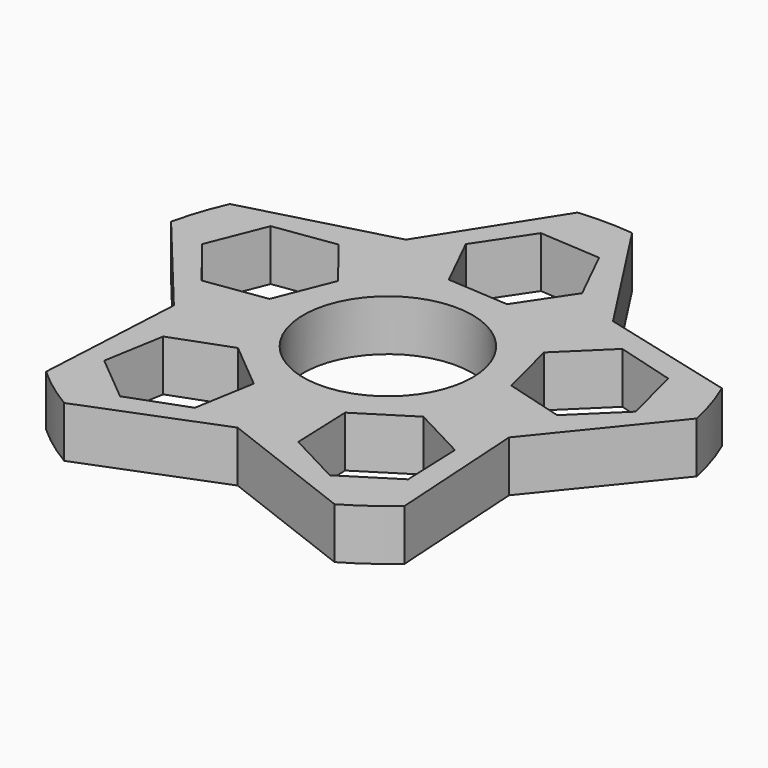
from build123d import *

# Parameters (mm, degrees)
F0_R     = 10.95
F1_DEPTH = 6.6


with BuildPart() as f1:
    # F0 (on Top) → F1 (new body)
    with BuildSketch(Plane.XY):
        with BuildLine():
            Line((-22.483416, -6.533214), (-23.511816, -25.926714))
            ThreePointArc((-23.511816, -25.926714), (-20.762047, -28.176895), (-17.79831, -30.136691))
            Line((-17.79831, -30.136691), (-0.734302, -23.401873))
            Line((-0.734302, -23.401873), (17.39222, -30.372861))
            ThreePointArc((17.39222, -30.372861), (20.381994, -28.45302), (23.161716, -26.239949))
            Line((23.161716, -26.239949), (22.029592, -7.929939))
            Line((22.029592, -7.929939), (34.260799, 7.155253))
            ThreePointArc((34.260799, 7.155253), (33.358812, 10.591961), (32.113038, 13.919511))
            Line((32.113038, 13.919511), (14.349339, 18.500901))
            Line((14.349339, 18.500901), (3.782119, 34.795051))
            ThreePointArc((3.782119, 34.795051), (0.234886, 34.999212), (-3.314767, 34.84268))
            Line((-3.314767, 34.84268), (-13.161213, 19.364125))
            Line((-13.161213, 19.364125), (-31.923321, 14.349271))
            ThreePointArc((-31.923321, 14.349271), (-33.213645, 11.038741), (-34.161677, 7.614449))
            Line((-34.161677, 7.614449), (-22.483416, -6.533214))
        make_face()
        Polygon((-5.476719, -14.85534), (-6.826935, -22.707532), (-14.30224, -25.464306), (-20.42733, -20.368889), (-19.077114, -12.516697), (-11.601808, -9.759923), align=None, mode=Mode.SUBTRACT)
        Circle(F0_R, mode=Mode.SUBTRACT)
        Polygon((12.435869, -9.799222), (19.486507, -13.509814), (19.798359, -21.471142), (13.059573, -25.721878), (6.008934, -22.011286), (5.697082, -14.049958), align=None, mode=Mode.SUBTRACT)
        Polygon((-23.705785, -0.524213), (-25.609628, 1.891393), (-28.63763, 5.733335), (-25.684357, 13.133212), (-17.799239, 14.275541), (-12.867394, 8.017994), (-15.820667, 0.618117), (-22.303521, -0.321064), align=None, mode=Mode.SUBTRACT)
        Polygon((13.162508, 8.799088), (18.870258, 14.358008), (26.538299, 12.194411), (28.49859, 4.471894), (22.79084, -1.087025), (15.122799, 1.076571), align=None, mode=Mode.SUBTRACT)
        Polygon((-4.300991, 15.237357), (-7.824046, 22.383551), (-3.396788, 29.007702), (4.553524, 28.485661), (8.076579, 21.339467), (3.649322, 14.715315), align=None, mode=Mode.SUBTRACT)
    extrude(amount=F1_DEPTH)


solid = f1.part
